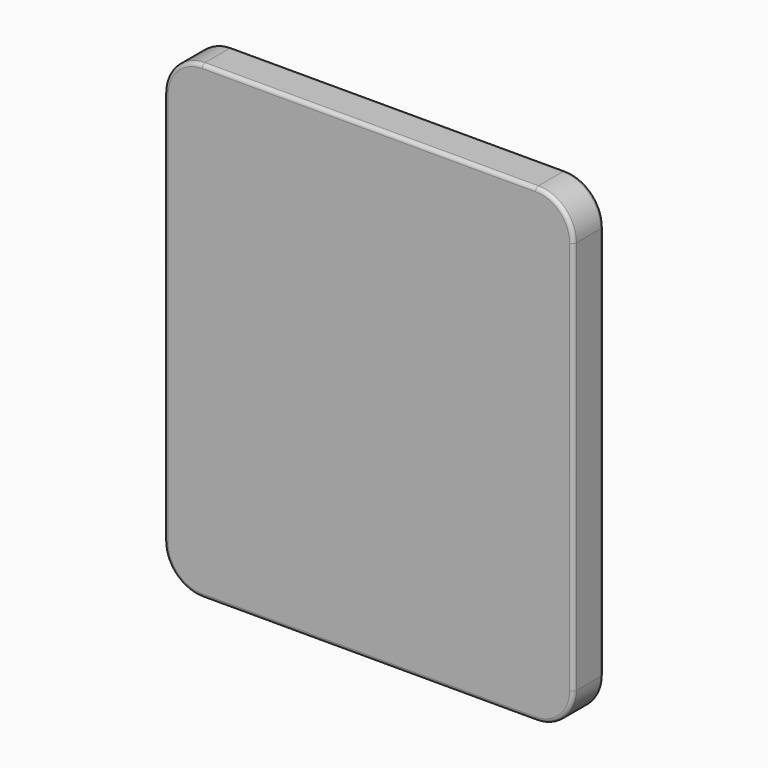
from build123d import *

# Parameters (mm, degrees)
SKETCH001_W  = 540
SKETCH001_H  = 620
PAD001_DEPTH = 50
FILLET001_R  = 50
FILLET002_R  = 5


with BuildPart() as part:
    # Sketch001 (on Face1 of Binder) → Pad001 (new body)
    with BuildSketch(Plane.XZ.offset(425)):
        Rectangle(SKETCH001_W, SKETCH001_H)
    extrude(amount=PAD001_DEPTH)

    # Fillet001
    fillet001_edges = [part.edges().sort_by_distance(p)[0] for p in [
        (270, -450, -310),
        (-270, -450, -310),
        (270, -450, 310),
        (-270, -450, 310),
    ]]
    fillet(fillet001_edges, radius=FILLET001_R)

    # Fillet002
    fillet002_edges = [part.edges().sort_by_distance(p)[0] for p in [
        (270, -475, 0),
        (0, -425, -310),
    ]]
    fillet(fillet002_edges, radius=FILLET002_R)


solid = part.part
